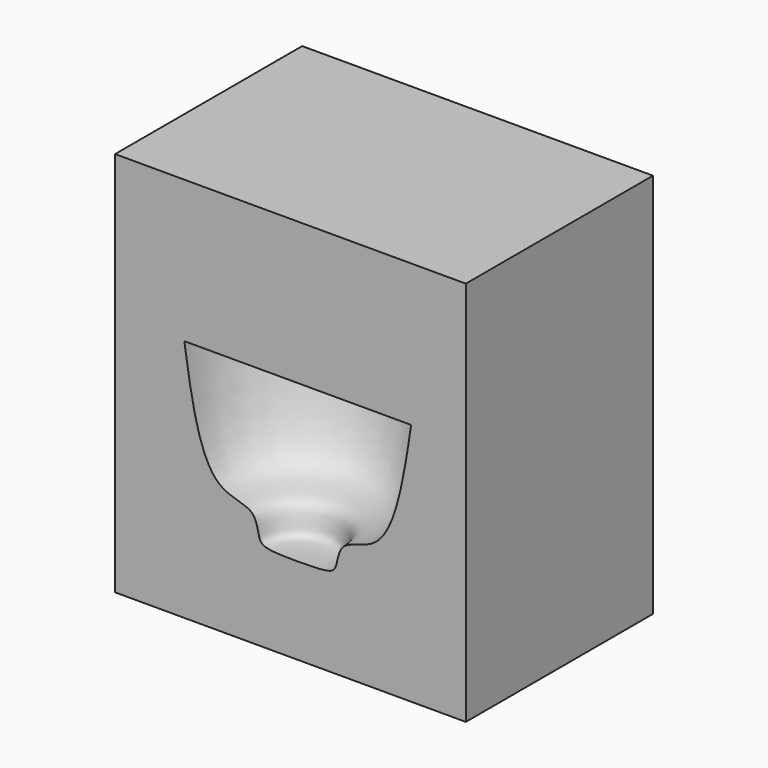
from build123d import *

# Parameters (mm, degrees)
F2_W     = 90
F2_H     = 99
F3_DEPTH = 60


with BuildPart() as f1:
    # F0 (on Front) → F1 (revolve)
    with BuildSketch(Plane.XZ):
        with BuildLine():
            Line((28.5875385463, 3.7629891087), (28.5875385463, -36.5419039394))
            add(Edge.make_bspline(
                [(28.5875385463, -36.5419039394), (36.877758444, -36.5419039394), (38.6275867194, -35.8378488567), (39.3034274749, -27.6489692273), (52.7312499665, -28.0489931449), (55.7562974133, -9.2624192261), (57.687700038, 3.7629891087)],
                knots=[0, 0, 0, 0, 0.2273966772, 0.3897712394, 0.6048240119, 1, 1, 1, 1], degree=3))
            Line((57.687700038, 3.7629891087), (28.5875385463, 3.7629891087))
        make_face()
    revolve(axis=Axis((28.5875385463, 0, -16.3894574153), (0, 0, 1)))


with BuildPart() as f3:
    # F2 (on Front) → F3 (new body)
    with BuildSketch(Plane.XZ):
        with Locations((26.7319735885, -9.2539225817)):
            Rectangle(F2_W, F2_H)
    extrude(amount=-F3_DEPTH)

    # F4: cut F1
    add(f1.part, mode=Mode.SUBTRACT)


solid = f3.part
